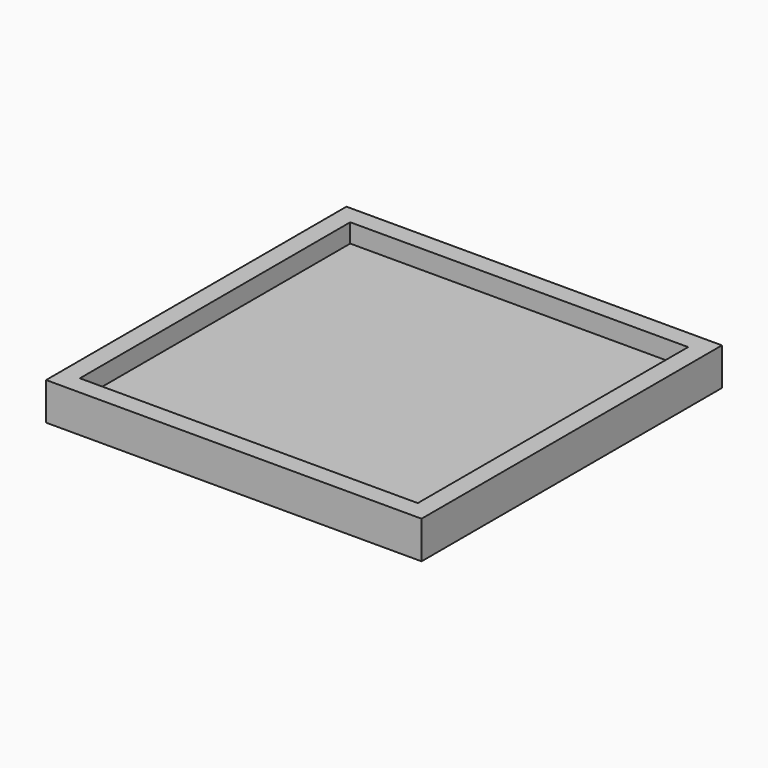
from build123d import *

# Parameters (mm, degrees)
F0_W     = 40
F0_H     = 40
F1_DEPTH = 4
F2_W     = 36.000001
F2_H     = 36.000001
F3_DEPTH = 2
F4_W     = 36
F4_H     = 36
F5_DEPTH = 2


with BuildPart() as f1:
    # F0 (on Top) → F1 (new body)
    with BuildSketch(Plane.XY):
        with Locations((-1.689615, 1.937058)):
            Rectangle(F0_W, F0_H)
    extrude(amount=F1_DEPTH)

    # F2 (on face) → F3 (join)
    with BuildSketch(Plane.XY.offset(4)):
        with Locations((-1.689615, 1.937058)):
            Rectangle(F2_W, F2_H)
    extrude(amount=-F3_DEPTH)

    # F4 (on face) → F5 (cut)
    with BuildSketch(Plane.XY.offset(4)):
        with Locations((-1.689615, 1.937058)):
            Rectangle(F4_W, F4_H)
    extrude(amount=-F5_DEPTH, mode=Mode.SUBTRACT)


solid = f1.part
